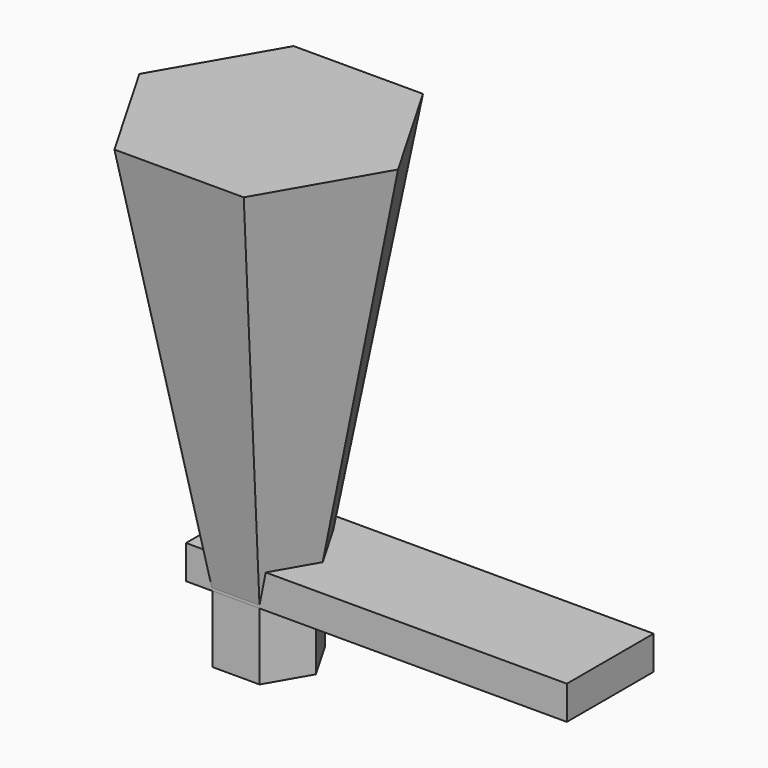
from build123d import *

# Parameters (mm, degrees)
F1_DEPTH      = 300
F1_TAPER      = -10
F1_DEPTH_BACK = 50
F2_W          = 282.932549715
F2_H          = 80.5106787011
F3_DEPTH      = 25


with BuildPart() as f1:
    # F0 (on Top) → F1 (new body, two sides)
    with BuildSketch(Plane.XY) as f1_sk:
        Polygon((-71.1411711854, -33.5191795008), (-106.1411711854, -33.5191795008), (-123.6411711854, -63.8300686332), (-106.1411711854, -94.1409577657), (-71.1411711854, -94.1409577657), (-53.6411711854, -63.8300686332), align=None)
    extrude(amount=F1_DEPTH, taper=F1_TAPER)
    extrude(f1_sk.sketch, amount=-F1_DEPTH_BACK)


with BuildPart() as f3:
    # F2 (on Top) → F3 (new body)
    with BuildSketch(Plane.XY):
        with Locations((15.9373134375, -54.2593435384)):
            Rectangle(F2_W, F2_H)
    extrude(amount=F3_DEPTH)


solid = Compound([f1.part, f3.part])
